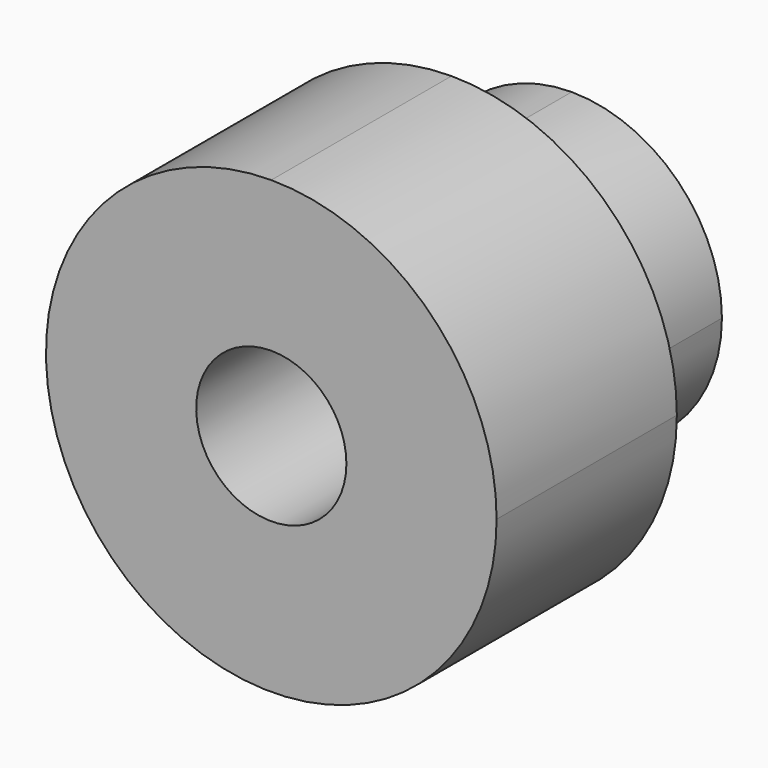
from build123d import *

# Parameters (mm, degrees)
F1_DEPTH = 50
F2_DEPTH = 30


with BuildPart() as f1:
    # F0 (on Front) → F1 (new body)
    with BuildSketch(Plane.XZ):
        with BuildLine():
            ThreePointArc((20, 0), (14.142136, 14.142136), (0, 20))
            ThreePointArc((0, 20), (-14.142136, -14.142136), (20, 0))
        make_face()
        with BuildLine():
            ThreePointArc((0, 10), (7.071068, 7.071068), (10, 0))
            ThreePointArc((10, 0), (-7.071068, -7.071068), (0, 10))
        make_face(mode=Mode.SUBTRACT)
    extrude(amount=-F1_DEPTH)

    # F0 (on Front) → F2 (join)
    with BuildSketch(Plane.XZ):
        with BuildLine():
            ThreePointArc((0, 10), (-7.071068, -7.071068), (10, 0))
            ThreePointArc((10, 0), (7.071068, 7.071068), (0, 10))
        make_face()
        with BuildLine():
            ThreePointArc((20, 0), (14.142136, 14.142136), (0, 20))
            ThreePointArc((0, 20), (-14.142136, -14.142136), (20, 0))
        make_face()
        with BuildLine():
            ThreePointArc((0, 10), (7.071068, 7.071068), (10, 0))
            ThreePointArc((10, 0), (-7.071068, -7.071068), (0, 10))
        make_face(mode=Mode.SUBTRACT)
        with BuildLine():
            ThreePointArc((30, 0), (21.213203, 21.213203), (0, 30))
            ThreePointArc((0, 30), (-21.213203, -21.213203), (30, 0))
        make_face()
        with BuildLine():
            ThreePointArc((20, 0), (-14.142136, -14.142136), (0, 20))
            ThreePointArc((0, 20), (14.142136, 14.142136), (20, 0))
        make_face(mode=Mode.SUBTRACT)
    extrude(amount=-F2_DEPTH)


solid = f1.part
